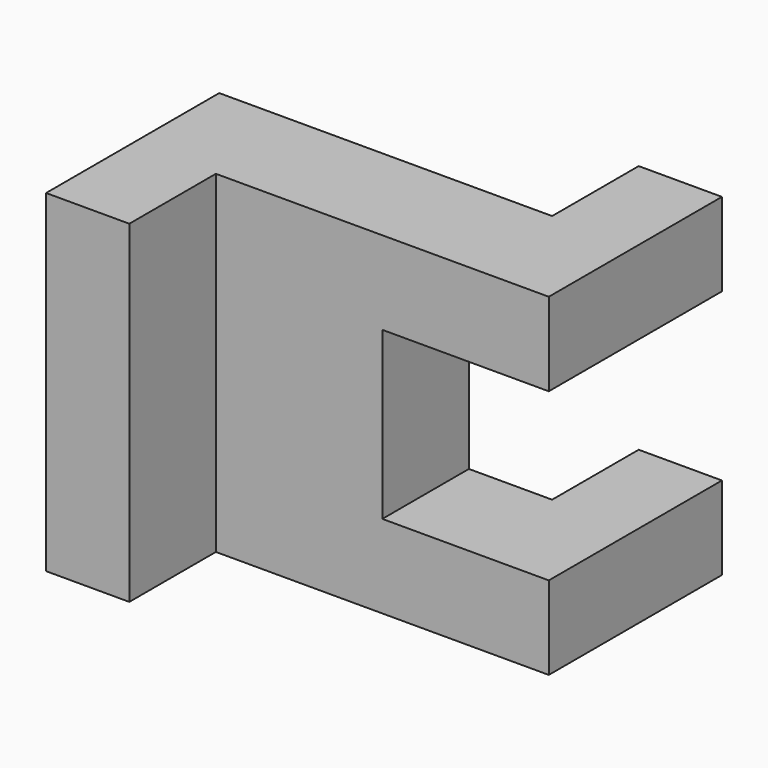
from build123d import *

# Parameters (mm, degrees)
F1_DEPTH = 20
F2_W     = 20
F2_H     = 20
F3_DEPTH = 26.001


with BuildPart() as f1:
    # F0 (on Top) → F1 (new body, symmetric)
    with BuildSketch(Plane.XY):
        Polygon((0, 26), (0, 0), (10, 0), (10, 13), (50, 13), (50, 39), (40, 39), (40, 26), align=None)
    extrude(amount=F1_DEPTH, both=True)

    # F2 (on face) → F3 (cut, through all)
    with BuildSketch(Plane.XZ.offset(-13)):
        with Locations((40, 0)):
            Rectangle(F2_W, F2_H)
    extrude(amount=-F3_DEPTH, mode=Mode.SUBTRACT)


solid = f1.part
